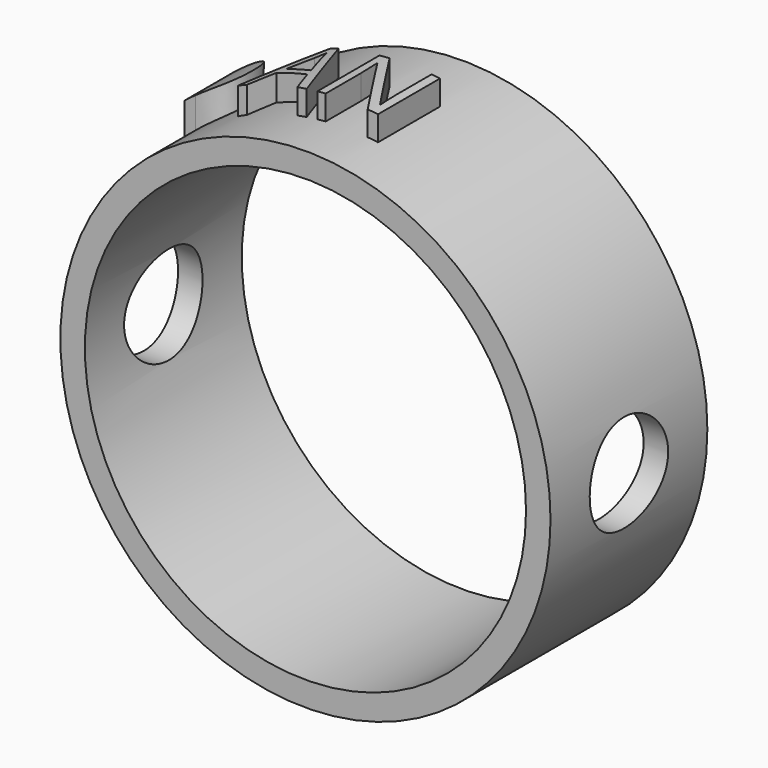
from build123d import *

# Parameters (mm, degrees)
F0_R     = 63.5
F0_R_2   = 57.15
F1_DEPTH = 50.8
F4_R     = 117.5833254056
F4_R_2   = 69.85
F5_DEPTH = 76.2
F7_R     = 12.7
F8_DEPTH = 76.2


with BuildPart() as f1:
    # F0 (on Front) → F1 (new body)
    with BuildSketch(Plane.XZ):
        Circle(F0_R)
        Circle(F0_R_2, mode=Mode.SUBTRACT)
    extrude(amount=F1_DEPTH)

    # F2 (on offset) → F3 (join, up to the next surface of F1)
    with BuildSketch(Plane.XY.offset(76.2)):
        with BuildLine():
            Line((5.7865704067, -37.8838032484), (8.454411462, -37.8838032484))
            Line((8.454411462, -37.8838032484), (8.454411462, -17.7693382623))
            Line((8.454411462, -17.7693382623), (6.2664296064, -17.7693382623))
            Line((6.2664296064, -17.7693382623), (6.2664296064, -29.3123733233))
            add(Edge.make_bspline(
                [(6.3368676541, -32.1959308995), (6.2400153385, -30.1796417852), (6.2664296064, -29.3123733233)],
                knots=[0, 0, 0, 1, 1, 1], degree=2))
            add(Edge.make_bspline(
                [(6.4601342375, -34.5820197642), (6.4337199696, -34.2122200139), (6.3368676541, -32.1959308995)],
                knots=[0, 0, 0, 1, 1, 1], degree=2))
            Line((6.4601342375, -34.5820197642), (6.350074788, -34.5820197642))
            Line((6.350074788, -34.5820197642), (-4.6162487577, -17.7693382623))
            Line((-4.6162487577, -17.7693382623), (-7.2576755451, -17.7693382623))
            Line((-7.2576755451, -17.7693382623), (-7.2576755451, -37.8838032484))
            Line((-7.2576755451, -37.8838032484), (-5.0961079574, -37.8838032484))
            Line((-5.0961079574, -37.8838032484), (-5.0961079574, -26.4508276369))
            add(Edge.make_bspline(
                [(-5.3162268563, -21.0050860769), (-5.0961079574, -23.9766912127), (-5.0961079574, -26.4508276369)],
                knots=[0, 0, 0, 1, 1, 1], degree=2))
            Line((-5.3162268563, -21.0050860769), (-5.2061674069, -21.0050860769))
            Line((-5.2061674069, -21.0050860769), (5.7865704067, -37.8838032484))
        make_face()
        Polygon((-14.9486298744, -31.4871480449), (-12.4436768043, -37.8838032484), (-10.0223689159, -37.8838032484), (-17.9334421442, -17.6856930807), (-19.9013051008, -17.6856930807), (-27.8519997309, -37.8838032484), (-25.4835203782, -37.8838032484), (-23.009383954, -31.4871480449), align=None)
        with BuildLine():
            Line((-18.0170873258, -23.1490441527), (-15.6750222409, -29.382811371))
            Line((-15.6750222409, -29.382811371), (-22.1817368939, -29.382811371))
            Line((-22.1817368939, -29.382811371), (-19.8176599192, -23.1490441527))
            add(Edge.make_bspline(
                [(-18.9503914573, -20.2478770645), (-19.2541555379, -21.5685904582), (-19.8176599192, -23.1490441527)],
                knots=[0, 0, 0, 1, 1, 1], degree=2))
            add(Edge.make_bspline(
                [(-18.0170873258, -23.1490441527), (-18.4705322576, -21.9648044763), (-18.9503914573, -20.2478770645)],
                knots=[0, 0, 0, 1, 1, 1], degree=2))
        make_face(mode=Mode.SUBTRACT)
        with BuildLine():
            add(Edge.make_bspline(
                [(-34.1540038078, -33.8050000509), (-32.0474659448, -31.7468883457), (-32.0474659448, -27.7187124949)],
                knots=[0, 0, 0, 1, 1, 1], degree=2))
            add(Edge.make_bspline(
                [(-32.0474659448, -27.7187124949), (-32.0474659448, -23.7829865817), (-34.0219324684, -21.7887093572)],
                knots=[0, 0, 0, 1, 1, 1], degree=2))
            add(Edge.make_bspline(
                [(-34.0219324684, -21.7887093572), (-35.996398992, -19.7944321327), (-39.8925035034, -19.7944321327)],
                knots=[0, 0, 0, 1, 1, 1], degree=2))
            Line((-39.8925035034, -19.7944321327), (-43.2911393032, -19.7944321327))
            Line((-43.2911393032, -19.7944321327), (-43.2911393032, -35.863111756))
            Line((-43.2911393032, -35.863111756), (-40.4428007508, -35.863111756))
            add(Edge.make_bspline(
                [(-40.4428007508, -35.863111756), (-36.2605416707, -35.863111756), (-34.1540038078, -33.8050000509)],
                knots=[0, 0, 0, 1, 1, 1], degree=2))
        make_face()
    extrude(until=Until.NEXT, dir=(0, 0, -1))

    # F4 (on Front) → F5 (cut, symmetric)
    with BuildSketch(Plane.XZ):
        with Locations((3.9105862379, 0.7332265377)):
            Circle(F4_R)
        Circle(F4_R_2, mode=Mode.SUBTRACT)
    extrude(amount=F5_DEPTH, both=True, mode=Mode.SUBTRACT)

    # F7 (on Right) → F8 (cut, symmetric)
    with BuildSketch(Plane.YZ):
        with Locations((-25.4, 0)):
            Circle(F7_R)
    extrude(amount=F8_DEPTH, both=True, mode=Mode.SUBTRACT)


solid = f1.part
